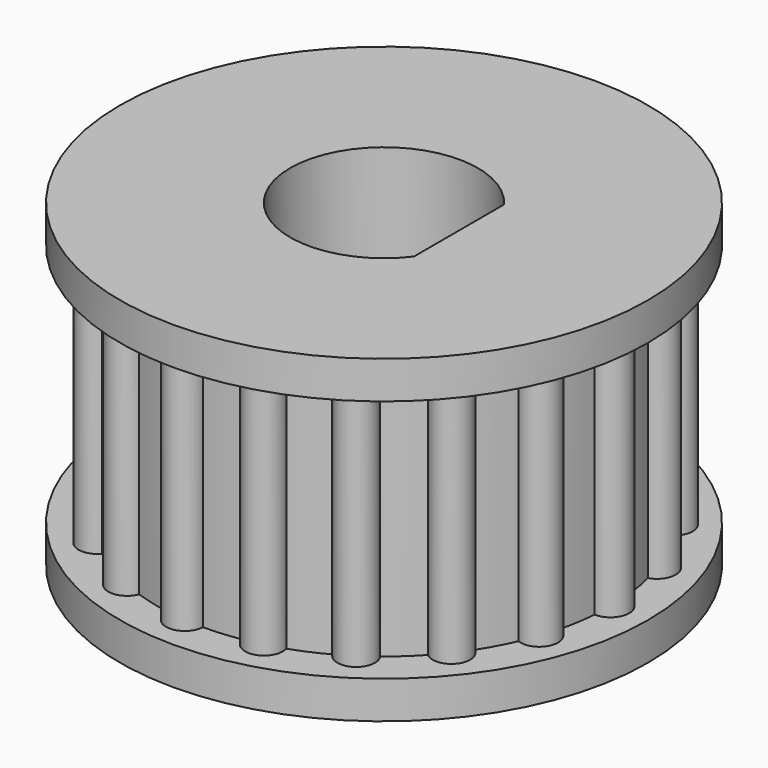
from build123d import *

# Parameters (mm, degrees)
PAD014_DEPTH       = 6.5
POLARPATTERN_COUNT = 19
PAD015_DEPTH       = 8.5


with BuildPart() as part:
    # Sketch031 → Revolution002 (revolve)
    with BuildSketch(Plane.YZ):
        Polygon((2.5, 0), (7.03, 0), (7.03, 1), (6.03, 1), (6.03, 7.5), (7.03, 7.5), (7.03, 8.5), (2.5, 8.5), align=None)
    revolve(axis=Axis((0, 0, 0), (0, 0, 1)))

    # Sketch029 → Pad014 (new body)
    with BuildSketch(Plane.XY.offset(1)):
        with BuildLine():
            ThreePointArc((5.78, -0.433013), (6.53, 0), (5.78, 0.433013))
            Line((5.78, 0.433013), (5.78, -0.433013))
        make_face()
    pad014 = extrude(amount=PAD014_DEPTH)

    # PolarPattern: Pad014 ×19 about axis
    polarpattern_axis = Axis((0, 0, 1), (0, 0, 1))
    for i in range(1, POLARPATTERN_COUNT):
        add(pad014.rotate(polarpattern_axis, i * 360 / POLARPATTERN_COUNT))

    # Sketch032 → Pad015 (join)
    with BuildSketch(Plane.XY):
        with BuildLine():
            ThreePointArc((2, -1.5), (2.5, 0), (2, 1.5))
            Line((2, 1.5), (2, -1.5))
        make_face()
    extrude(amount=PAD015_DEPTH)


solid = part.part
